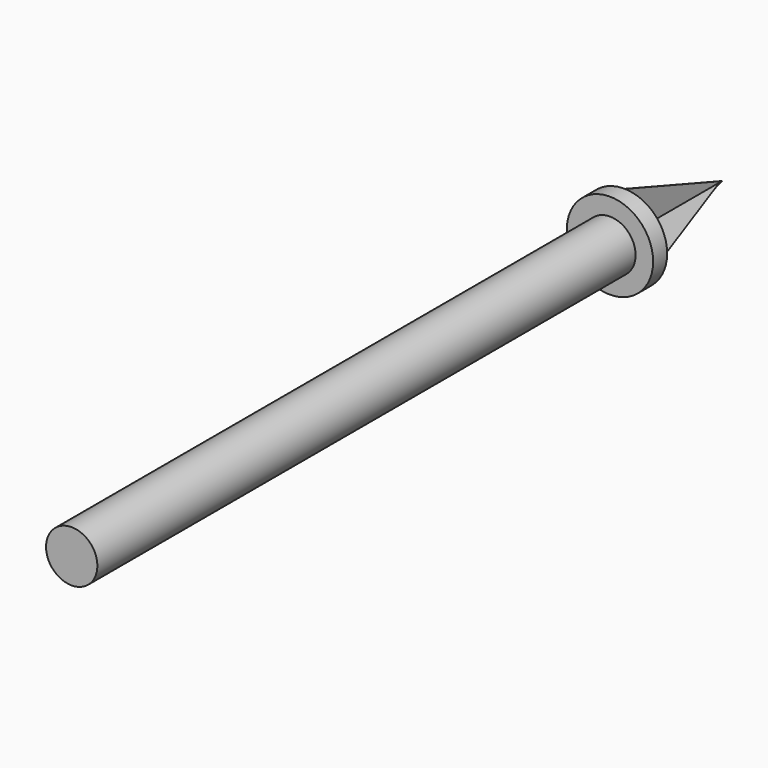
from build123d import *

# Parameters (mm, degrees)
F0_R     = 62.61538
F1_DEPTH = 25.4
F4_DEPTH = 0.00127
F5_DEPTH = 0.127
F6_R     = 37.21538
F7_DEPTH = 975.36


with BuildPart() as f1:
    # F0 (on Front) → F1 (new body)
    with BuildSketch(Plane.XZ):
        Circle(F0_R)
    extrude(amount=F1_DEPTH)

    # F3 (on Top) → F4 (join, symmetric)
    with BuildSketch(Plane.XY):
        Polygon((61.124925, 0), (0, 173.340619), (0, 0), align=None)
        Polygon((0, 0), (0, 173.340619), (-61.587557, 0), align=None)
    extrude(amount=F4_DEPTH, both=True)

    # F2 (on Right) → F5 (join, symmetric)
    with BuildSketch(Plane.YZ):
        Polygon((0, 62.011465), (0, 0), (177.370593, 0), align=None)
        Polygon((177.370593, 0), (0, 0), (0, -62.011465), align=None)
    extrude(amount=F5_DEPTH, both=True)

    # F6 (on face) → F7 (join)
    with BuildSketch(Plane.XZ.offset(25.4)):
        Circle(F6_R)
    extrude(amount=F7_DEPTH)


solid = f1.part
